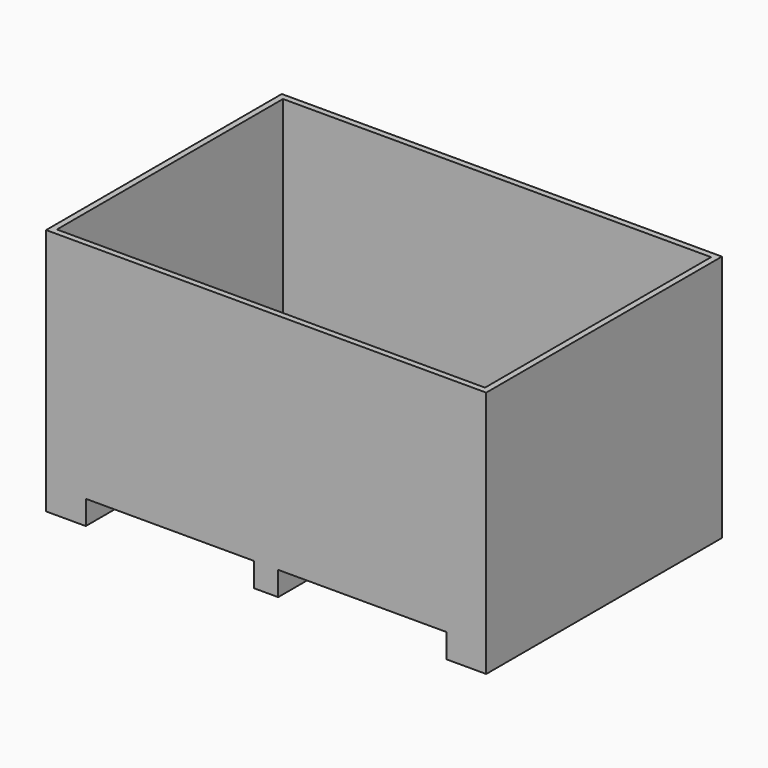
from build123d import *

# Parameters (mm, degrees)
F0_W     = 549
F0_H     = 367.5
F1_DEPTH = 279
F2_T     = -7.5
F3_W     = 49.5
F3_H     = 367.5
F3_W_2   = 30
F4_DEPTH = 30


with BuildPart() as f1:
    # F0 (on Top) → F1 (new body)
    with BuildSketch(Plane.XY):
        with Locations((1.85414, -14.167297)):
            Rectangle(F0_W, F0_H)
    extrude(amount=F1_DEPTH)

    # F2
    f2_openings = [f1.faces().sort_by_distance(p)[0] for p in [
        (1.85414, -14.167297, 279),
        (1.85414, -14.167297, 0),
    ]]
    offset(amount=F2_T, openings=f2_openings)

    # F3 (on face) → F4 (join)
    with BuildSketch(Plane(origin=(0, 0, 0), x_dir=(1, 0, 0), z_dir=(0, 0, -1))):
        with Locations((-247.89586, 14.167297)):
            Rectangle(F3_W, F3_H)
        with Locations((1.85414, 14.167297)):
            Rectangle(F3_W_2, F3_H)
        with Locations((251.60414, 14.167297)):
            Rectangle(F3_W, F3_H)
    extrude(amount=F4_DEPTH)


solid = f1.part
